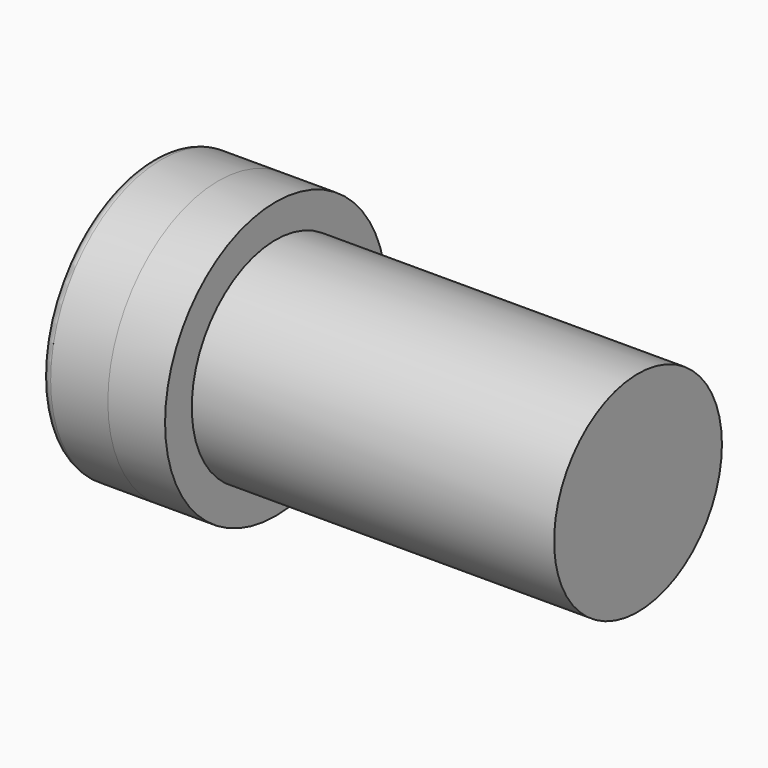
from build123d import *

# Parameters (mm, degrees)
F0_W   = 5
F0_H   = 11
F0_W_2 = 2
F3_R   = 1


with BuildPart() as f1:
    # F0 (on Top) → F1 (revolve)
    with BuildSketch(Plane.XY):
        with Locations((4.5, 5.5)):
            Rectangle(F0_W, F0_H)
        Polygon((7, 0), (51, 0), (51, 11), (13, 11), (13, 14.5), (7, 14.5), (7, 11), align=None)
    revolve(axis=Axis((29, 0, 0), (1, 0, 0)))


with BuildPart() as f2:
    # F0 (on Top) → F2 (revolve)
    with BuildSketch(Plane.XY):
        Polygon((2, 11), (7, 11), (7, 14.5), (0, 14.5), (0, 11), align=None)
        with Locations((1, 5.5)):
            Rectangle(F0_W_2, F0_H)
    revolve(axis=Axis((3.5, 0, 0), (1, 0, 0)))

    # F3
    f3_edges = [f2.edges().sort_by_distance(p)[0] for p in [
        (0, -14.5, 0),
    ]]
    fillet(f3_edges, radius=F3_R)


solid = Compound([f1.part, f2.part])
